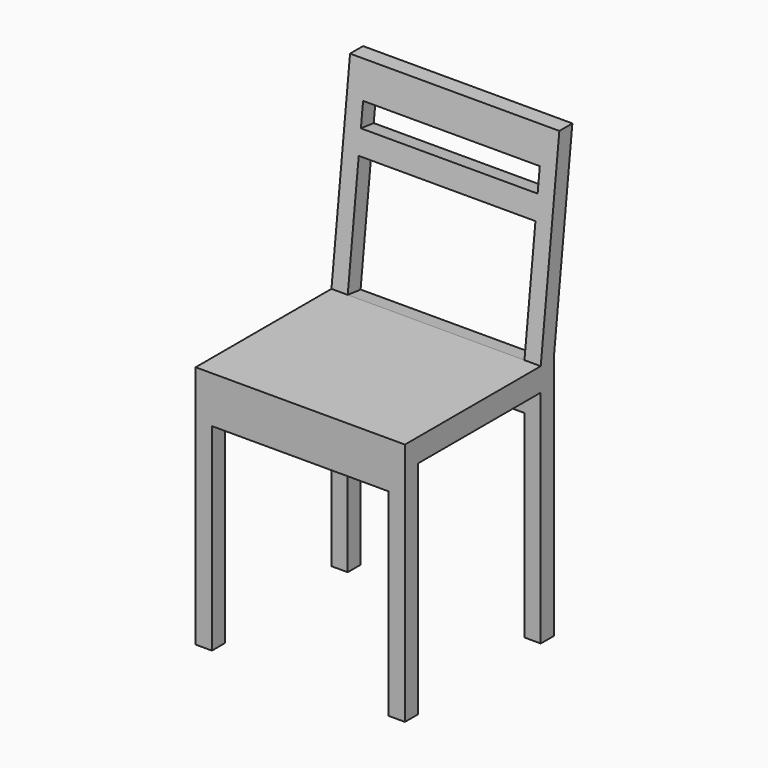
from build123d import *

# Parameters (mm, degrees)
F0_W     = 450
F0_H     = 450
F1_DEPTH = 950
F2_W     = 330
F2_H     = 475
F2_W_2   = 50
F2_H_2   = 50
F3_DEPTH = 450.001
F4_W     = 380
F4_H     = 425
F5_DEPTH = 450.001
F6_W     = 380
F6_H     = 50
F6_H_2   = 252.931069
F7_DEPTH = 145.760456


with BuildPart() as f1:
    # F0 (on Top) → F1 (new body)
    with BuildSketch(Plane.XY):
        Rectangle(F0_W, F0_H)
    extrude(amount=F1_DEPTH)

    # F2 (on face) → F3 (cut, through all)
    with BuildSketch(Plane.YZ.offset(225)):
        Polygon((-225, 950), (-225, 525), (140, 525), (190, 950), align=None)
        with Locations((-25, 237.5)):
            Rectangle(F2_W, F2_H)
        Polygon((225, 950), (175, 525), (225, 525), align=None)
        with Locations((200, 237.5)):
            Rectangle(F2_W_2, F2_H)
        with Locations((200, 500)):
            Rectangle(F2_W_2, F2_H_2)
    extrude(amount=-F3_DEPTH, mode=Mode.SUBTRACT)

    # F4 (on face) → F5 (cut, through all)
    with BuildSketch(Plane.XZ.offset(225)):
        with Locations((0, 212.5)):
            Rectangle(F4_W, F4_H)
    extrude(amount=-F5_DEPTH, mode=Mode.SUBTRACT)

    # F6 (on face) → F7 (cut, through all)
    with BuildSketch(Plane(origin=(0, 77.167235, -9.078498), x_dir=(1, 0, 0), z_dir=(0, -0.993151, 0.116841))):
        with Locations((0, 865.692911)):
            Rectangle(F6_W, F6_H)
        with Locations((0, 664.227376)):
            Rectangle(F6_W, F6_H_2)
    extrude(amount=-F7_DEPTH, mode=Mode.SUBTRACT)


solid = f1.part
